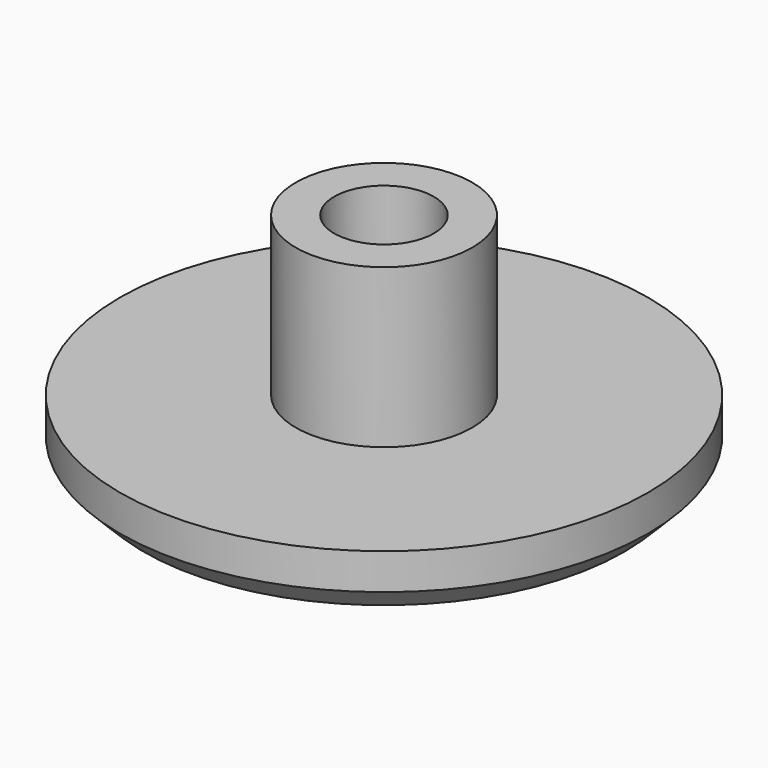
from build123d import *

# Parameters (mm, degrees)
F0_R     = 11
F1_DEPTH = 2.5
F2_SIZE2 = 1
F2_SIZE  = 1
F3_R     = 3.675
F4_DEPTH = 6.6
F5_R     = 2.075
F6_DEPTH = 6


with BuildPart() as f1:
    # F0 (on Top) → F1 (new body)
    with BuildSketch(Plane.XY):
        Circle(F0_R)
    extrude(amount=F1_DEPTH)

    # F2
    f2_edges = [f1.edges().sort_by_distance(p)[0] for p in [
        (-11, 0, 0),
    ]]
    chamfer(f2_edges, length=F2_SIZE, length2=F2_SIZE2)

    # F3 (on face) → F4 (join)
    with BuildSketch(Plane.XY.offset(2.5)):
        Circle(F3_R)
    extrude(amount=F4_DEPTH)

    # F5 (on face) → F6 (cut)
    with BuildSketch(Plane.XY.offset(9.1)):
        Circle(F5_R)
    extrude(amount=-F6_DEPTH, mode=Mode.SUBTRACT)


solid = f1.part
